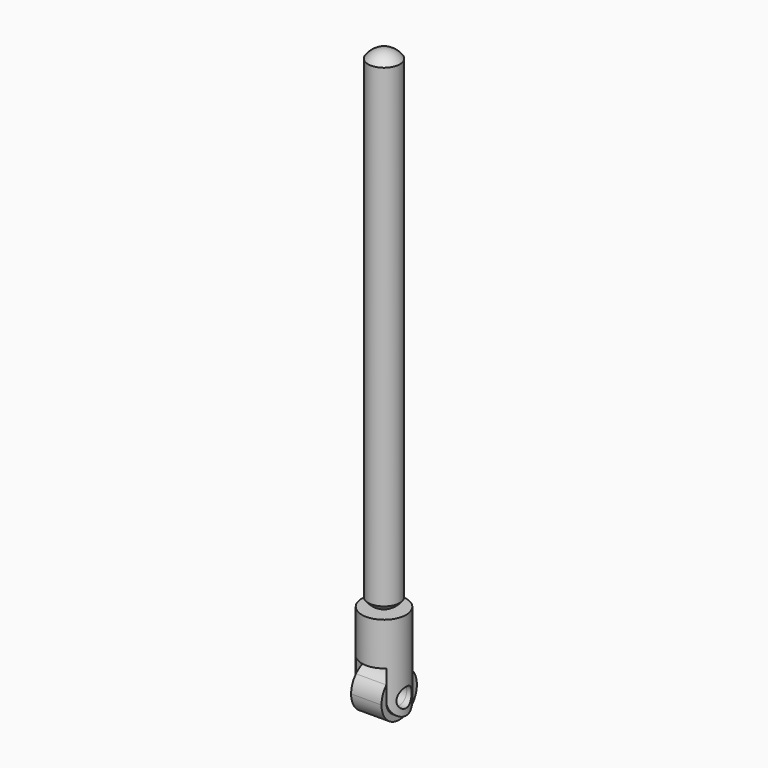
from build123d import *

# Parameters (mm, degrees)
F0_R      = 8.89
F1_DEPTH  = 38.1
F4_DEPTH  = 38.2524
F7_DEPTH  = 48.7934
F8_R      = 3.81
F9_DEPTH  = 56.642
F10_R     = 3.81
F11_DEPTH = 12.2211605602
F12_R     = 6.35
F13_DEPTH = 197.485


with BuildPart() as f1:
    # F0 (on Top) → F1 (new body)
    with BuildSketch(Plane.XY):
        Circle(F0_R)
    extrude(amount=F1_DEPTH)

    # F3 (on offset) → F4 (cut)
    with BuildSketch(Plane.YZ.offset(25.4)):
        with BuildLine():
            ThreePointArc((6.4570046183, 8.89), (0, 2.4329953817), (-6.4570046183, 8.89))
            Line((-6.4570046183, 8.89), (-6.4570046183, 16.746873036))
            Line((-6.4570046183, 16.746873036), (-10.0484732538, 18.0296134204))
            Line((-10.0484732538, 18.0296134204), (-10.0484732538, 27.6839248836))
            Line((-10.0484732538, 27.6839248836), (-15.5845116824, 29.5067671686))
            Line((-15.5845116824, 29.5067671686), (-19.2977078259, -10.0556556135))
            Line((-19.2977078259, -10.0556556135), (0, -10.0556556135))
            Line((0, -10.0556556135), (19.2977078259, -10.0556556135))
            Line((19.2977078259, -10.0556556135), (15.5845116824, 29.5067671686))
            Line((15.5845116824, 29.5067671686), (10.0484732538, 27.6839248836))
            Line((10.0484732538, 27.6839248836), (10.0484732538, 18.0296134204))
            Line((10.0484732538, 18.0296134204), (6.4570046183, 16.746873036))
            Line((6.4570046183, 16.746873036), (6.4570046183, 8.89))
        make_face()
    extrude(amount=-F4_DEPTH, mode=Mode.SUBTRACT)

    # F6 (on offset) → F7 (cut)
    with BuildSketch(Plane.XZ.offset(31.8570046183)):
        Polygon((6.1105802801, -8.4009311883), (6.1105802801, 8.89), (6.1105802801, 16.746873036), (6.1105802801, 20.8768360317), (-6.1105802801, 20.8768360317), (-6.1105802801, 16.746873036), (-6.1105802801, -8.4009311883), align=None)
        Polygon((6.1105802801, -8.4009311883), (6.1105802801, 8.89), (6.1105802801, 16.746873036), (6.1105802801, 20.8768360317), (-6.1105802801, 20.8768360317), (-6.1105802801, 16.746873036), (-6.1105802801, -8.4009311883), align=None)
    extrude(amount=-F7_DEPTH, mode=Mode.SUBTRACT)

    # F8 (on face) → F9 (cut, symmetric)
    with BuildSketch(Plane(origin=(6.1105802801, 0, 0), x_dir=(0, -1, 0), z_dir=(-1, 0, 0))):
        with Locations((0, 8.89)):
            Circle(F8_R)
    extrude(amount=F9_DEPTH, both=True, mode=Mode.SUBTRACT)


with BuildPart() as f11:
    # F10 (on face) → F11 (new body, through all)
    with BuildSketch(Plane(origin=(6.1105802801, 0, 0), x_dir=(0, -1, 0), z_dir=(-1, 0, 0))):
        with BuildLine():
            Line((6.4570046183, 8.89), (6.4570046183, 15.0005802801))
            ThreePointArc((6.4570046183, 15.0005802801), (0, 17.78), (-6.4570046183, 15.0005802801))
            Line((-6.4570046183, 15.0005802801), (-6.4570046183, 8.89))
            ThreePointArc((-6.4570046183, 8.89), (0, 2.4329953817), (6.4570046183, 8.89))
        make_face()
        with Locations((0, 8.89)):
            Circle(F10_R, mode=Mode.SUBTRACT)
        with BuildLine():
            ThreePointArc((-6.4570046183, 15.0005802801), (-3.2885657165, 0.6306153057), (8.89, 8.89))
            ThreePointArc((8.89, 8.89), (8.2593846943, 12.1785657165), (6.4570046183, 15.0005802801))
            Line((6.4570046183, 15.0005802801), (6.4570046183, 8.89))
            ThreePointArc((6.4570046183, 8.89), (0, 2.4329953817), (-6.4570046183, 8.89))
            Line((-6.4570046183, 8.89), (-6.4570046183, 15.0005802801))
        make_face()
    extrude(amount=F11_DEPTH)


with BuildPart() as f13:
    # F12 (on face) → F13 (new body)
    with BuildSketch(Plane.XY.offset(38.1)):
        Circle(F12_R)
    extrude(amount=F13_DEPTH)

    # F14 (on Right) → F15 (revolve, cut)
    with BuildSketch(Plane.YZ):
        with BuildLine():
            Line((0, 36.0566006196), (0, 38.1))
            ThreePointArc((0, 38.1), (-5.3881536726, 40.3318463274), (-7.62, 45.72))
            Line((-7.62, 45.72), (-9.0922005475, 45.72))
            Line((-9.0922005475, 45.72), (-9.0922005475, 36.0566006196))
            Line((-9.0922005475, 36.0566006196), (0, 36.0566006196))
        make_face()
    revolve(axis=Axis((0, 0, 49.53), (0, 0, 1)), mode=Mode.SUBTRACT)

    # F16 (on Right) → F17 (revolve, cut)
    with BuildSketch(Plane.YZ):
        with BuildLine():
            Line((-16.7539454997, 225.7774323225), (-7.604127579, 227.4734272558))
            ThreePointArc((-7.604127579, 227.4734272558), (-5.5592348534, 233.1764592817), (0, 235.585))
            Line((0, 235.585), (0, 245.8123266697))
            Line((0, 245.8123266697), (-18.5541827232, 245.8123266697))
            Line((-18.5541827232, 245.8123266697), (-16.7539454997, 225.7774323225))
        make_face()
    revolve(axis=Axis((0, 0, 236.8886633348), (0, 0, 1)), mode=Mode.SUBTRACT)


solid = Compound([f1.part, f11.part, f13.part])
